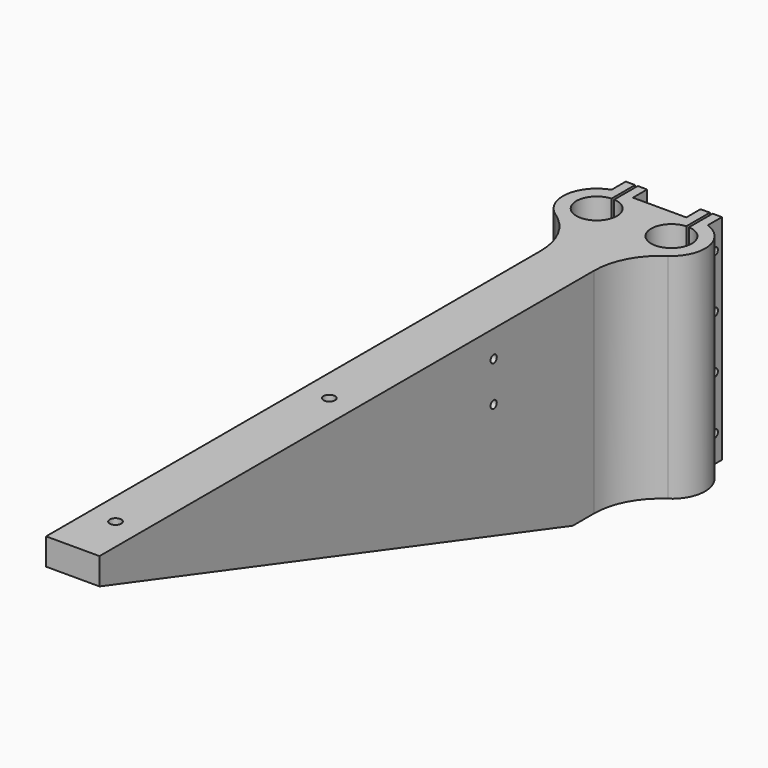
from build123d import *

# Parameters (mm, degrees)
F0_R      = 7.6
F1_DEPTH  = 80
F2_DEPTH  = 80
F3_R      = 2.15
F4_DEPTH  = 80.001
F5_R      = 3.65
F6_DEPTH  = 70
F8_DEPTH  = 36.601
F9_W      = 0.5
F9_H      = 18.6
F10_DEPTH = 80.001
F11_R     = 1.45
F12_DEPTH = 44.601
F13_R     = 1.45
F14_DEPTH = 36.601


with BuildPart() as f1:
    # F0 (on Top) → F1 (new body)
    with BuildSketch(Plane.XY):
        with BuildLine():
            Line((-4, 18.6), (-4, 11.948222))
            ThreePointArc((-4, 11.948222), (-12.485747, 1.692961), (-7.037234, -10.451667))
            ThreePointArc((-7.037234, -10.451667), (1.06886, -19.443232), (4, -31.189101))
            Line((4, -31.189101), (4, -262.6))
            Line((4, -262.6), (24, -262.6))
            Line((24, -262.6), (24, -31.189101))
            ThreePointArc((24, -31.189101), (26.93114, -19.443232), (35.037234, -10.451667))
            ThreePointArc((35.037234, -10.451667), (40.485747, 1.692961), (32, 11.948222))
            Line((32, 11.948222), (32, 18.6))
            Line((32, 18.6), (24, 18.6))
            Line((24, 18.6), (24, 11.948222))
            Line((24, 11.948222), (4, 11.948222))
            Line((4, 11.948222), (4, 18.6))
            Line((4, 18.6), (-4, 18.6))
        make_face()
        Circle(F0_R, mode=Mode.SUBTRACT)
        with Locations((28, 0)):
            Circle(F0_R, mode=Mode.SUBTRACT)
    extrude(amount=-F1_DEPTH)

    # F0 (on Top) → F2 (join)
    with BuildSketch(Plane.XY):
        with BuildLine():
            Line((-4, 18.6), (-4, 11.948222))
            ThreePointArc((-4, 11.948222), (-12.485747, 1.692961), (-7.037234, -10.451667))
            ThreePointArc((-7.037234, -10.451667), (1.06886, -19.443232), (4, -31.189101))
            Line((4, -31.189101), (4, -262.6))
            Line((4, -262.6), (24, -262.6))
            Line((24, -262.6), (24, -31.189101))
            ThreePointArc((24, -31.189101), (26.93114, -19.443232), (35.037234, -10.451667))
            ThreePointArc((35.037234, -10.451667), (40.485747, 1.692961), (32, 11.948222))
            Line((32, 11.948222), (32, 18.6))
            Line((32, 18.6), (24, 18.6))
            Line((24, 18.6), (24, 11.948222))
            Line((24, 11.948222), (4, 11.948222))
            Line((4, 11.948222), (4, 18.6))
            Line((4, 18.6), (-4, 18.6))
        make_face()
        Circle(F0_R, mode=Mode.SUBTRACT)
        with Locations((28, 0)):
            Circle(F0_R, mode=Mode.SUBTRACT)
    extrude(amount=-F2_DEPTH)

    # F3 (on face) → F4 (cut, through all)
    with BuildSketch(Plane.XY):
        with Locations((14, -142.6)):
            Circle(F3_R)
        with Locations((14, -242.6)):
            Circle(F3_R)
    extrude(amount=-F4_DEPTH, mode=Mode.SUBTRACT)

    # F5 (on face) → F6 (cut)
    with BuildSketch(Plane(origin=(0, 0, -80), x_dir=(1, 0, 0), z_dir=(0, 0, -1))):
        with Locations((14, 242.6)):
            Circle(F5_R)
        with Locations((14, 142.6)):
            Circle(F5_R)
    extrude(amount=-F6_DEPTH, mode=Mode.SUBTRACT)

    # F7 (on face) → F8 (cut, through all)
    with BuildSketch(Plane(origin=(4, 0, 0), x_dir=(0, -1, 0), z_dir=(-1, 0, 0))):
        Polygon((262.6, -80), (262.6, -10), (41.189101, -80), align=None)
    extrude(amount=-F8_DEPTH, mode=Mode.SUBTRACT)

    # F9 (on face) → F10 (cut, through all)
    with BuildSketch(Plane.XY):
        with Locations((-0.25, 9.3)):
            Rectangle(F9_W, F9_H)
        with Locations((0.25, 9.3)):
            Rectangle(F9_W, F9_H)
        with Locations((27.75, 9.3)):
            Rectangle(F9_W, F9_H)
        with Locations((28.25, 9.3)):
            Rectangle(F9_W, F9_H)
    extrude(amount=-F10_DEPTH, mode=Mode.SUBTRACT)

    # F11 (on face) → F12 (cut, through all)
    with BuildSketch(Plane(origin=(-4, 0, 0), x_dir=(0, -1, 0), z_dir=(-1, 0, 0))):
        with Locations((-15.274111, -30)):
            Circle(F11_R)
        with Locations((-15.274111, -70)):
            Circle(F11_R)
        with Locations((-15.274111, -50)):
            Circle(F11_R)
        with Locations((-15.274111, -10)):
            Circle(F11_R)
    extrude(amount=-F12_DEPTH, mode=Mode.SUBTRACT)

    # F13 (on face) → F14 (cut, through all)
    with BuildSketch(Plane(origin=(4, 0, 0), x_dir=(0, -1, 0), z_dir=(-1, 0, 0))):
        with Locations((78.189101, -10)):
            Circle(F13_R)
        with Locations((78.189101, -25)):
            Circle(F13_R)
    extrude(amount=-F14_DEPTH, mode=Mode.SUBTRACT)


solid = f1.part
